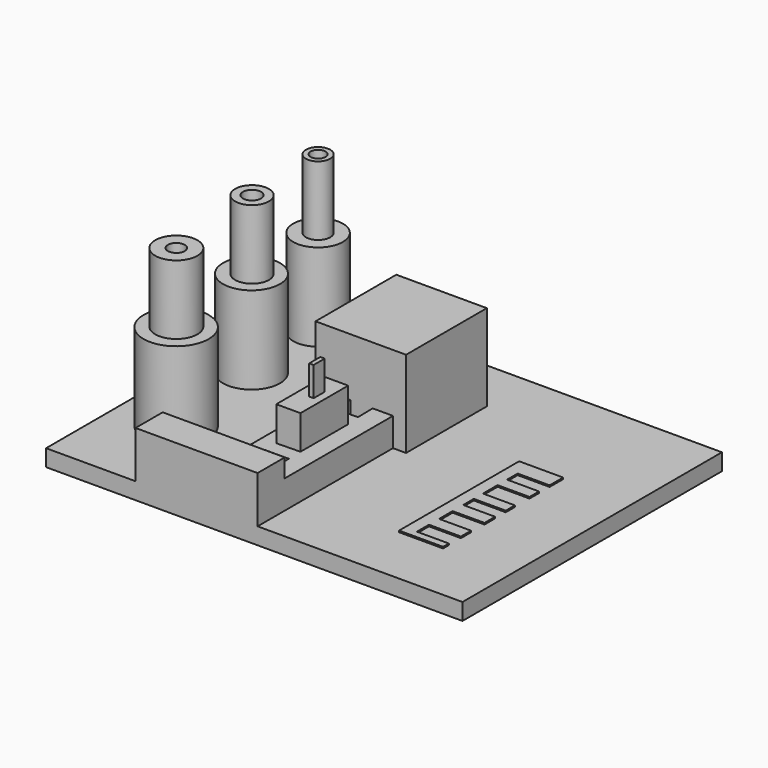
from build123d import *

# Parameters (mm, degrees)
F0_W      = 360.8396798372
F0_H      = 281.035810709
F1_DEPTH  = 14.478
F2_R      = 21.5107094722
F2_R_2    = 24.7089721203
F2_R_3    = 28.2455541112
F3_DEPTH  = 75.692
F4_R      = 10.5555341184
F4_R_2    = 6.4147085914
F4_R_3    = 14.6610687467
F4_R_4    = 7.8515753599
F4_R_5    = 18.2872208754
F4_R_6    = 7.3119029403
F5_DEPTH  = 59.944
F6_W      = 78.4418359399
F6_H      = 87.4972045422
F7_DEPTH  = 74.93
F9_DEPTH  = 24.638
F10_W     = 20.9634182729
F10_H     = 51.7013933032
F11_DEPTH = 54.102
F12_W     = 3.7795142394
F12_H     = 12.0124146342
F13_DEPTH = 25.4
F14_W     = 105.7597789913
F14_H     = 29.3969660997
F15_DEPTH = 40.64
F17_DEPTH = 1.27


with BuildPart() as f1:
    # F0 (on Top) → F1 (new body)
    with BuildSketch(Plane.XY):
        with Locations((-14.175452292, -6.1578452587)):
            Rectangle(F0_W, F0_H)
    extrude(amount=-F1_DEPTH)

    # F2 (on face) → F3 (join)
    with BuildSketch(Plane.XY):
        with Locations((-157.2264283895, 101.2231707573)):
            Circle(F2_R)
        with Locations((-155.097797513, 26.4635402709)):
            Circle(F2_R_2)
        with Locations((-145.9769010544, -66.5491223335)):
            Circle(F2_R_3)
    extrude(amount=F3_DEPTH)

    # F4 (on face) → F5 (join)
    with BuildSketch(Plane.XY.offset(75.692)):
        with Locations((-157.2264283895, 101.2231707573)):
            Circle(F4_R)
        with Locations((-157.2264283895, 101.2231707573)):
            Circle(F4_R_2, mode=Mode.SUBTRACT)
        with Locations((-154.6684801579, 26.4845881611)):
            Circle(F4_R_3)
        with Locations((-154.6684801579, 26.4845881611)):
            Circle(F4_R_4, mode=Mode.SUBTRACT)
        with Locations((-146.3120281696, -65.9587830305)):
            Circle(F4_R_5)
        with Locations((-146.3120281696, -65.9587830305)):
            Circle(F4_R_6, mode=Mode.SUBTRACT)
    extrude(amount=F5_DEPTH)

    # F6 (on face) → F7 (join)
    with BuildSketch(Plane.XY):
        with Locations((-39.2209179699, 43.7486022711)):
            Rectangle(F6_W, F6_H)
    extrude(amount=F7_DEPTH)

    # F8 (on face) → F9 (join)
    with BuildSketch(Plane.XY):
        Polygon((-48.2832752168, 0), (-60.267470777, 0), (-60.267470777, -66.7334496975), (-60.267470777, -117.2787845135), (-48.2832752168, -117.2787845135), (-48.2832752168, -93.1336581707), (-48.2832752168, -80.6389690893), (-48.2832752168, -58.6393922567), (-48.2832752168, -43.9444051084), (-48.2832752168, -28.5100445064), (-48.2832752168, -16.6609026492), align=None)
        Polygon((-28.6240933259, -16.2599701732), (-48.2832752168, -16.6609026492), (-48.2832752168, -28.5100445064), (-28.3742633655, -28.5100445064), align=None)
        Polygon((-27.3198569439, -16.2333713694), (-28.6240933259, -16.2599701732), (-28.3742633655, -28.5100445064), align=None)
        Polygon((-28.9557017386, 0), (-28.6240933259, -16.2599701732), (-27.3198569439, -16.2333713694), (-28.3742633655, -28.5100445064), (-28.0799994067, -42.9388798786), (-27.3198569439, -58.211860977), (-27.7683332748, -58.2210072744), (-27.3198569439, -80.2114378095), (-26.5638995916, -93.1336581707), (-27.0563191308, -93.1336581707), (-26.5638995916, -117.2787845135), (-11.304622516, -117.2787845135), (-11.304622516, 0), align=None)
        Polygon((-48.2832752168, -80.6389690893), (-48.2832752168, -93.1336581707), (-27.0563191308, -93.1336581707), (-27.3198569439, -80.2114378095), align=None)
        Polygon((-27.3198569439, -80.2114378095), (-27.0563191308, -93.1336581707), (-26.5638995916, -93.1336581707), align=None)
    extrude(amount=F9_DEPTH)

    # F10 (on face) → F11 (join)
    with BuildSketch(Plane.XY):
        with Locations((-37.8015660804, -54.360741158)):
            Rectangle(F10_W, F10_H)
    extrude(amount=F11_DEPTH)

    # F12 (on face) → F13 (join)
    with BuildSketch(Plane.XY.offset(54.102)):
        with Locations((-35.9118089607, -51.5961125493)):
            Rectangle(F12_W, F12_H)
    extrude(amount=F13_DEPTH)

    # F14 (on face) → F15 (join)
    with BuildSketch(Plane.XY):
        with Locations((-64.1845120117, -131.9772675633)):
            Rectangle(F14_W, F14_H)
    extrude(amount=F15_DEPTH)

    # F16 (on face) → F17 (join)
    with BuildSketch(Plane.XY):
        Polygon((106.9932729006, 36.4078879356), (68.8668936491, 36.4078879356), (68.8668936491, -93.6395674944), (106.9932729006, -93.6395674944), (106.9932729006, -87.3722210526), (79.3124735355, -87.3722210526), (79.3124735355, -74.3152499199), (106.9932729006, -74.3152499199), (106.9932729006, -63.3473917842), (79.3124735355, -63.3473917842), (79.3124735355, -48.7235784531), (106.9932729006, -48.7235784531), (106.9932729006, -37.2334420681), (79.3124735355, -37.2334420681), (79.3124735355, -25.7433056831), (106.9932729006, -25.7433056831), (106.9932729006, -15.8200059086), (79.3124735355, -15.8200059086), (79.3124735355, 0), (106.9932729006, 0), (106.9932729006, 10.2939419448), (79.3124735355, 10.2939419448), (79.3124735355, 21.7840764672), (106.9932729006, 21.7840764672), align=None)
    extrude(amount=F17_DEPTH)


solid = f1.part
